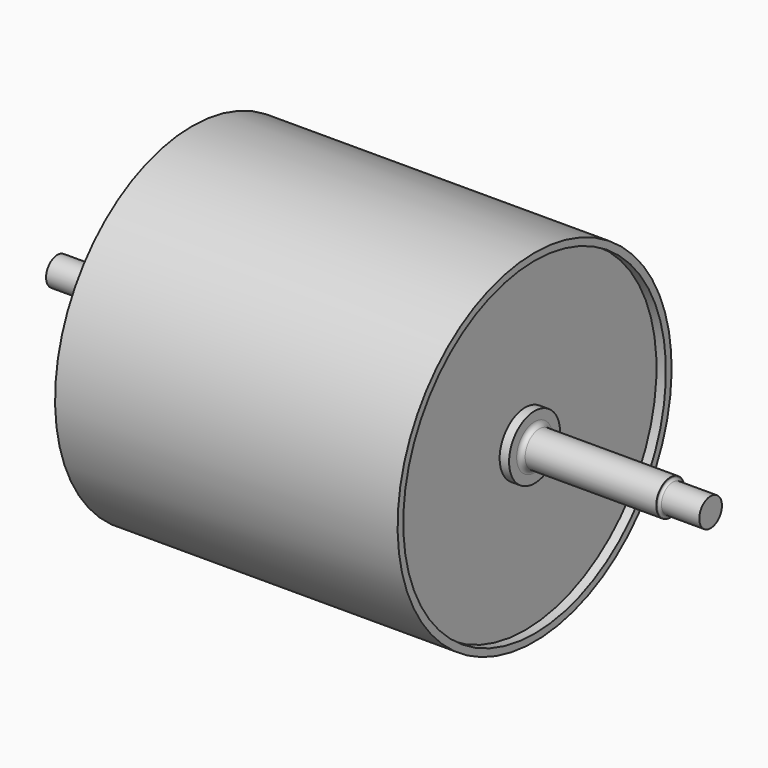
from build123d import *

# Parameters (mm, degrees)
F0_W = 85
F0_H = 30
F2_R = 10
F3_R = 5


with BuildPart() as f1:
    # F0 (on Front) → F1 (revolve)
    with BuildSketch(Plane.XZ):
        with Locations((42.5, 15)):
            Rectangle(F0_W, F0_H)
        Polygon((85, 30), (85, 0), (285, 0), (285, 37.5), (85, 37.5), align=None)
        Polygon((285, 37.5), (285, 0), (465, 0), (465, 50), (355, 50), (285, 50), align=None)
        Polygon((285, 67.5), (285, 50), (355, 50), (355, 67.5), (305, 67.5), align=None)
        Polygon((355, 50), (465, 50), (465, 70), (455, 70), (355, 70), (355, 67.5), align=None)
        Polygon((305, 67.5), (355, 67.5), (355, 70), (355, 170), (355, 347.5), (305, 347.5), align=None)
        Polygon((355, 70), (455, 70), (355, 170), align=None)
        Polygon((285, 347.5), (305, 347.5), (355, 347.5), (647.5, 347.5), (940, 347.5), (990, 347.5), (1010, 347.5), (1010, 362.5), (285, 362.5), align=None)
        Polygon((990, 347.5), (940, 347.5), (940, 170), (940, 70), (940, 67.5), (990, 67.5), align=None)
        Polygon((940, 70), (940, 170), (840, 70), align=None)
        Polygon((1010, 67.5), (990, 67.5), (940, 67.5), (940, 70), (840, 70), (830, 70), (830, 50), (1010, 50), align=None)
        Polygon((1010, 37.5), (1010, 50), (830, 50), (830, 0), (1010, 0), align=None)
        Polygon((1297.5, 37.5), (1010, 37.5), (1010, 0), (1297.5, 0), (1297.5, 30), align=None)
        with Locations((1340, 15)):
            Rectangle(F0_W, F0_H)
    revolve(axis=Axis((691.25, 0, 0), (1, 0, 0)))

    # F2
    f2_edges = [f1.edges().sort_by_distance(p)[0] for p in [
        (1010, 0, -37.5),
        (285, 0, -37.5),
    ]]
    fillet(f2_edges, radius=F2_R)

    # F3
    f3_edges = [f1.edges().sort_by_distance(p)[0] for p in [
        (85, 0, -30),
        (1297.5, 0, -30),
    ]]
    fillet(f3_edges, radius=F3_R)


solid = f1.part
